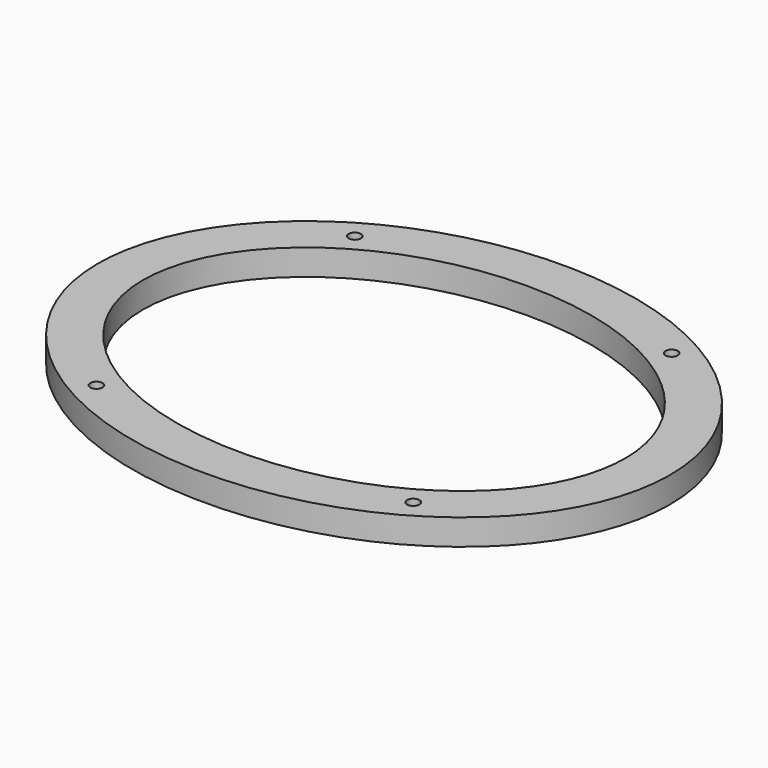
from build123d import *

# Parameters (mm, degrees)
F0_R     = 1.5
F1_DEPTH = 6.35


with BuildPart() as f1:
    # F0 (on Top) → F1 (new body)
    with BuildSketch(Plane.XY):
        with BuildLine():
            add(Edge.make_bspline(
                [(-70, 0), (-70, -95.262794), (35, -47.631397), (140, 0), (35, 47.631397), (-70, 95.262794), (-70, 0)],
                knots=[0, 0, 0, 2.094395, 2.094395, 4.18879, 4.18879, 6.283185, 6.283185, 6.283185], degree=2, weights=[1, 0.5, 1, 0.5, 1, 0.5, 1]))
        make_face()
        with Locations((-38.75, -39.5)):
            Circle(F0_R, mode=Mode.SUBTRACT)
        with Locations((38.75, -39.5)):
            Circle(F0_R, mode=Mode.SUBTRACT)
        with Locations((-38.75, 39.5)):
            Circle(F0_R, mode=Mode.SUBTRACT)
        with BuildLine():
            add(Edge.make_bspline(
                [(-59, 0), (-59, -76.210236), (29.5, -38.105118), (118, 0), (29.5, 38.105118), (-59, 76.210236), (-59, 0)],
                knots=[0, 0, 0, 2.094395, 2.094395, 4.18879, 4.18879, 6.283185, 6.283185, 6.283185], degree=2, weights=[1, 0.5, 1, 0.5, 1, 0.5, 1]))
        make_face(mode=Mode.SUBTRACT)
        with Locations((38.75, 39.5)):
            Circle(F0_R, mode=Mode.SUBTRACT)
    extrude(amount=F1_DEPTH)


solid = f1.part
